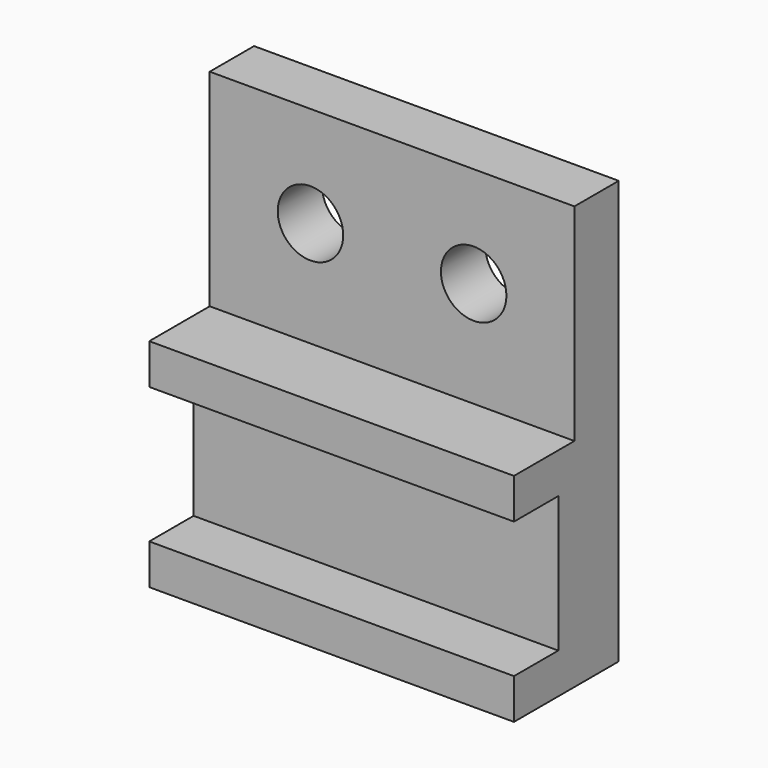
from build123d import *

# Parameters (mm, degrees)
F0_W     = 114.935
F0_H     = 65.0875
F0_R     = 10.31875
F0_H_2   = 12.7
F0_H_3   = 42.8625
F1_DEPTH = 17.4625
F2_DEPTH = 23.8125
F3_DEPTH = 41.275


with BuildPart() as f1:
    # F0 (on Front) → F1 (new body)
    with BuildSketch(Plane.XZ):
        with Locations((-10.257453, 33.324088)):
            Rectangle(F0_W, F0_H)
        with Locations((-35.972588, 34.117838)):
            Circle(F0_R, mode=Mode.SUBTRACT)
        with Locations((15.460047, 34.117838)):
            Circle(F0_R, mode=Mode.SUBTRACT)
        with Locations((-10.257453, -5.569662)):
            Rectangle(F0_W, F0_H_2)
        with Locations((-10.257453, -33.350912)):
            Rectangle(F0_W, F0_H_3)
        with Locations((-10.257453, -61.132162)):
            Rectangle(F0_W, F0_H_2)
    extrude(amount=F1_DEPTH)

    # F0 (on Front) → F2 (join)
    with BuildSketch(Plane.XZ):
        with Locations((-10.257453, -61.132162)):
            Rectangle(F0_W, F0_H_2)
        with Locations((-10.257453, -33.350912)):
            Rectangle(F0_W, F0_H_3)
        with Locations((-10.257453, -5.569662)):
            Rectangle(F0_W, F0_H_2)
    extrude(amount=F2_DEPTH)

    # F0 (on Front) → F3 (join)
    with BuildSketch(Plane.XZ):
        with Locations((-10.257453, -5.569662)):
            Rectangle(F0_W, F0_H_2)
        with Locations((-10.257453, -61.132162)):
            Rectangle(F0_W, F0_H_2)
    extrude(amount=F3_DEPTH)


solid = f1.part
